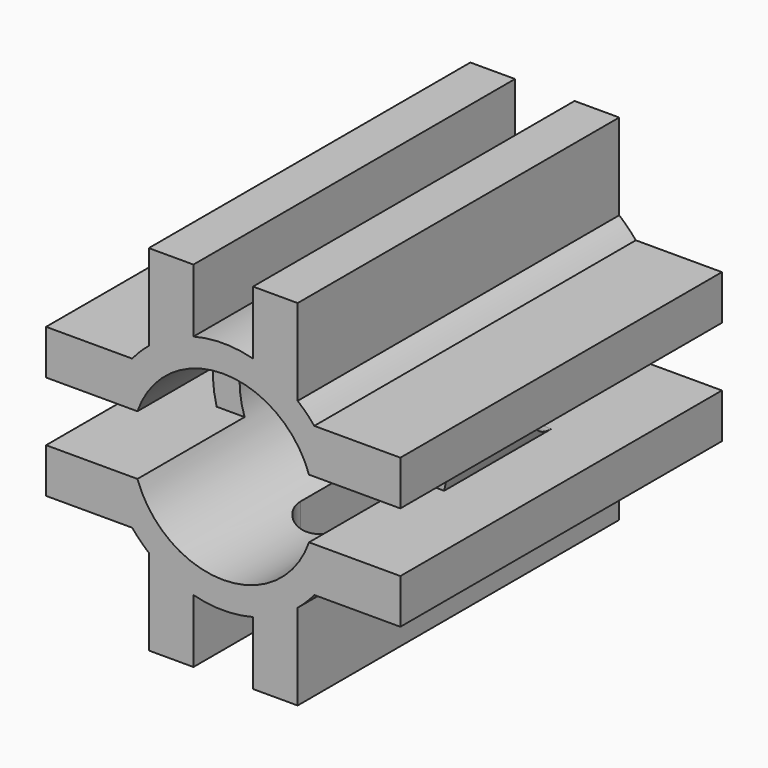
from build123d import *

# Parameters (mm, degrees)
F3_R     = 3.05
F4_DEPTH = 6.75
F5_W     = 4.5
F5_H     = 2
F6_DEPTH = 5
F8_DEPTH = 12.5


with BuildPart() as f4:
    # F3 (on Front) → F4 (new body, symmetric)
    with BuildSketch(Plane.XZ):
        with BuildLine():
            ThreePointArc((3.8213217609, -1), (3.9176983648, -0.5041225271), (3.95, 0))
            ThreePointArc((3.95, 0), (3.9176983648, 0.5041225271), (3.8213217609, 1))
            Line((3.8213217609, 1), (3.05, 1))
            Line((3.05, 1), (3.05, 2.5))
            Line((3.05, 2.5), (3.0581857367, 2.5))
            ThreePointArc((3.0581857367, 2.5), (2.7930717857, 2.7930717857), (2.5, 3.0581857367))
            Line((2.5, 3.0581857367), (2.5, 3.05))
            Line((2.5, 3.05), (1, 3.05))
            Line((1, 3.05), (1, 3.8213217609))
            ThreePointArc((1, 3.8213217609), (0, 3.95), (-1, 3.8213217609))
            Line((-1, 3.8213217609), (-1, 3.05))
            Line((-1, 3.05), (-2.5, 3.05))
            Line((-2.5, 3.05), (-2.5, 3.0581857367))
            ThreePointArc((-2.5, 3.0581857367), (-2.7930717857, 2.7930717857), (-3.0581857367, 2.5))
            Line((-3.0581857367, 2.5), (-3.05, 2.5))
            Line((-3.05, 2.5), (-3.05, 1))
            Line((-3.05, 1), (-3.8213217609, 1))
            ThreePointArc((-3.8213217609, 1), (-3.95, 0), (-3.8213217609, -1))
            Line((-3.8213217609, -1), (-3.05, -1))
            Line((-3.05, -1), (-3.05, -2.5))
            Line((-3.05, -2.5), (-3.0581857367, -2.5))
            ThreePointArc((-3.0581857367, -2.5), (-2.7930717857, -2.7930717857), (-2.5, -3.0581857367))
            Line((-2.5, -3.0581857367), (-2.5, -3.05))
            Line((-2.5, -3.05), (-1, -3.05))
            Line((-1, -3.05), (-1, -3.8213217609))
            ThreePointArc((-1, -3.8213217609), (0, -3.95), (1, -3.8213217609))
            Line((1, -3.8213217609), (1, -3.05))
            Line((1, -3.05), (2.5, -3.05))
            Line((2.5, -3.05), (2.5, -3.0581857367))
            ThreePointArc((2.5, -3.0581857367), (2.7930717857, -2.7930717857), (3.0581857367, -2.5))
            Line((3.0581857367, -2.5), (3.05, -2.5))
            Line((3.05, -2.5), (3.05, -1))
            Line((3.05, -1), (3.8213217609, -1))
        make_face()
        Circle(F3_R, mode=Mode.SUBTRACT)
        with BuildLine():
            Line((3.05, 1), (3.8213217609, 1))
            ThreePointArc((3.8213217609, 1), (3.5205689671, 1.7911153363), (3.0581857367, 2.5))
            Line((3.0581857367, 2.5), (3.05, 2.5))
            Line((3.05, 2.5), (3.05, 1))
        make_face()
        with BuildLine():
            ThreePointArc((3.0581857367, 2.5), (3.5205689671, 1.7911153363), (3.8213217609, 1))
            Line((3.8213217609, 1), (5.95, 1))
            Line((5.95, 1), (5.95, 2.5))
            Line((5.95, 2.5), (3.0581857367, 2.5))
        make_face()
        with BuildLine():
            Line((5.95, -1), (3.8213217609, -1))
            ThreePointArc((3.8213217609, -1), (3.5205689671, -1.7911153363), (3.0581857367, -2.5))
            Line((3.0581857367, -2.5), (5.95, -2.5))
            Line((5.95, -2.5), (5.95, -1))
        make_face()
        with BuildLine():
            ThreePointArc((3.0581857367, -2.5), (3.5205689671, -1.7911153363), (3.8213217609, -1))
            Line((3.8213217609, -1), (3.05, -1))
            Line((3.05, -1), (3.05, -2.5))
            Line((3.05, -2.5), (3.0581857367, -2.5))
        make_face()
        with BuildLine():
            Line((2.5, 3.05), (2.5, 3.0581857367))
            ThreePointArc((2.5, 3.0581857367), (1.7911153363, 3.5205689671), (1, 3.8213217609))
            Line((1, 3.8213217609), (1, 3.05))
            Line((1, 3.05), (2.5, 3.05))
        make_face()
        with BuildLine():
            ThreePointArc((1, 3.8213217609), (1.7911153363, 3.5205689671), (2.5, 3.0581857367))
            Line((2.5, 3.0581857367), (2.5, 5.95))
            Line((2.5, 5.95), (1, 5.95))
            Line((1, 5.95), (1, 3.8213217609))
        make_face()
        with BuildLine():
            Line((2.5, -5.95), (2.5, -3.0581857367))
            ThreePointArc((2.5, -3.0581857367), (1.7911153363, -3.5205689671), (1, -3.8213217609))
            Line((1, -3.8213217609), (1, -5.95))
            Line((1, -5.95), (2.5, -5.95))
        make_face()
        with BuildLine():
            ThreePointArc((1, -3.8213217609), (1.7911153363, -3.5205689671), (2.5, -3.0581857367))
            Line((2.5, -3.0581857367), (2.5, -3.05))
            Line((2.5, -3.05), (1, -3.05))
            Line((1, -3.05), (1, -3.8213217609))
        make_face()
        with BuildLine():
            Line((-1, 3.05), (-1, 3.8213217609))
            ThreePointArc((-1, 3.8213217609), (-1.7911153363, 3.5205689671), (-2.5, 3.0581857367))
            Line((-2.5, 3.0581857367), (-2.5, 3.05))
            Line((-2.5, 3.05), (-1, 3.05))
        make_face()
        with BuildLine():
            ThreePointArc((-2.5, 3.0581857367), (-1.7911153363, 3.5205689671), (-1, 3.8213217609))
            Line((-1, 3.8213217609), (-1, 5.95))
            Line((-1, 5.95), (-2.5, 5.95))
            Line((-2.5, 5.95), (-2.5, 3.0581857367))
        make_face()
        with BuildLine():
            Line((-1, -5.95), (-1, -3.8213217609))
            ThreePointArc((-1, -3.8213217609), (-1.7911153363, -3.5205689671), (-2.5, -3.0581857367))
            Line((-2.5, -3.0581857367), (-2.5, -5.95))
            Line((-2.5, -5.95), (-1, -5.95))
        make_face()
        with BuildLine():
            ThreePointArc((-2.5, -3.0581857367), (-1.7911153363, -3.5205689671), (-1, -3.8213217609))
            Line((-1, -3.8213217609), (-1, -3.05))
            Line((-1, -3.05), (-2.5, -3.05))
            Line((-2.5, -3.05), (-2.5, -3.0581857367))
        make_face()
        with BuildLine():
            Line((-3.05, 2.5), (-3.0581857367, 2.5))
            ThreePointArc((-3.0581857367, 2.5), (-3.5205689671, 1.7911153363), (-3.8213217609, 1))
            Line((-3.8213217609, 1), (-3.05, 1))
            Line((-3.05, 1), (-3.05, 2.5))
        make_face()
        with BuildLine():
            ThreePointArc((-3.8213217609, 1), (-3.5205689671, 1.7911153363), (-3.0581857367, 2.5))
            Line((-3.0581857367, 2.5), (-5.95, 2.5))
            Line((-5.95, 2.5), (-5.95, 1))
            Line((-5.95, 1), (-3.8213217609, 1))
        make_face()
        with BuildLine():
            Line((-5.95, -2.5), (-3.0581857367, -2.5))
            ThreePointArc((-3.0581857367, -2.5), (-3.5205689671, -1.7911153363), (-3.8213217609, -1))
            Line((-3.8213217609, -1), (-5.95, -1))
            Line((-5.95, -1), (-5.95, -2.5))
        make_face()
        with BuildLine():
            ThreePointArc((-3.8213217609, -1), (-3.5205689671, -1.7911153363), (-3.0581857367, -2.5))
            Line((-3.0581857367, -2.5), (-3.05, -2.5))
            Line((-3.05, -2.5), (-3.05, -1))
            Line((-3.05, -1), (-3.8213217609, -1))
        make_face()
    extrude(amount=F4_DEPTH, both=True)

    # F5 (on Right) → F6 (cut, symmetric)
    with BuildSketch(Plane.YZ):
        with Locations((-4.5, 0)):
            Rectangle(F5_W, F5_H)
        with Locations((4.5, 0)):
            Rectangle(F5_W, F5_H)
        with BuildLine():
            ThreePointArc((2.25, 1), (1.25, 0), (2.25, -1))
            Line((2.25, -1), (2.25, 1))
        make_face()
    extrude(amount=F6_DEPTH, both=True, mode=Mode.SUBTRACT)

    # F7 (on Top) → F8 (cut, symmetric)
    with BuildSketch(Plane.XY):
        with BuildLine():
            ThreePointArc((-1, -2.25), (0, -3.25), (1, -2.25))
            Line((1, -2.25), (1, 2.25))
            Line((1, 2.25), (-1, 2.25))
            Line((-1, 2.25), (-1, -2.25))
        make_face()
    extrude(amount=F8_DEPTH, both=True, mode=Mode.SUBTRACT)


solid = f4.part
